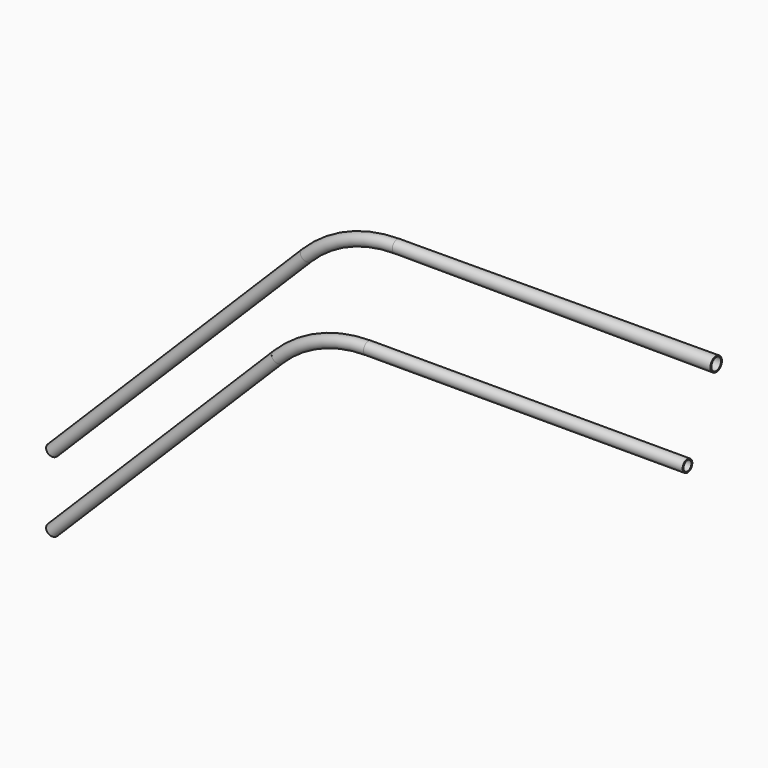
from build123d import *

# Parameters (mm, degrees)
F0_W        = 1000
F0_H        = 3.5
F1_FACE_R   = 19
F1_FACE_R_2 = 15.5
F2_FACE_R   = 19
F2_FACE_R_2 = 15.5


with BuildPart() as f1:
    # F0 (on Front) → F1 (revolve)
    with BuildSketch(Plane.XZ):
        Polygon((-10.9601551084, 230.9601551084), (696.1466260782, 938.0669362949), (693.671752344, 940.5418100291), (-13.4350288425, 233.4350288425), align=None)
        Polygon((693.671752344, 940.5418100291), (696.1466260782, 938.0669362949), (786.1466260782, 1028.0669362949), (783.671752344, 1030.5418100291), align=None)
    revolve(axis=Axis((353.5533905933, 0, 573.5533905933), (0.7071067812, 0, 0.7071067812)))


with BuildPart() as f2:
    # F0 (on Front) → F2 (revolve)
    with BuildSketch(Plane.XZ):
        Polygon((-13.4350288425, 13.4350288425), (-10.9601551084, 10.9601551084), (696.1466260782, 718.0669362949), (693.671752344, 720.5418100291), align=None)
    revolve(axis=Axis((353.5533905933, 0, 353.5533905933), (0.7071067812, 0, 0.7071067812)))


with BuildPart() as f3:
    # F0 (on Front) → F3 (revolve)
    with BuildSketch(Plane.XZ):
        Polygon((1079.9494936612, 1153.2640687119), (1079.9494936612, 1149.7640687119), (2079.9494936612, 1153.2640687119), (2079.9494936612, 1156.7640687119), align=None)
    revolve(axis=Axis((1579.9494936612, 0, 1134.2640687119), (1, 0, 0)))


with BuildPart() as f4:
    # F0 (on Front) → F4 (revolve)
    with BuildSketch(Plane.XZ):
        with Locations((1489.9494936612, 841.5140687119)):
            Rectangle(F0_W, F0_H)
    revolve(axis=Axis((1489.9494936612, 0, 824.2640687119), (1, 0, 0)))


with BuildPart() as f5:
    # F5: sweep along a path in F0
    with BuildLine(Plane.XZ) as f5_path:
        ThreePointArc((1079.9494936612, 1149.7640687119), (920.9445275135, 1118.1360144704), (786.1466260782, 1028.0669362949))
    # F1_face (on face) → F5 (sweep)
    with BuildSketch(Plane(origin=(797.1067811865, 0, 1017.1067811865), x_dir=(0, 1, 0), z_dir=(0.7071067812, 0, 0.7071067812))):
        Circle(F1_FACE_R)
        Circle(F1_FACE_R_2, mode=Mode.SUBTRACT)
    sweep(path=f5_path.line)


with BuildPart() as f6:
    # F6: sweep along a path in F0
    with BuildLine(Plane.XZ) as f6_path:
        ThreePointArc((989.9494936612, 839.7640687119), (830.9445275135, 808.1360144704), (696.1466260782, 718.0669362949))
    # F2_face (on face) → F6 (sweep)
    with BuildSketch(Plane(origin=(707.1067811865, 0, 707.1067811865), x_dir=(0, 1, 0), z_dir=(0.7071067812, 0, 0.7071067812))):
        Circle(F2_FACE_R)
        Circle(F2_FACE_R_2, mode=Mode.SUBTRACT)
    sweep(path=f6_path.line)


solid = Compound([f1.part, f2.part, f3.part, f4.part, f5.part, f6.part])
